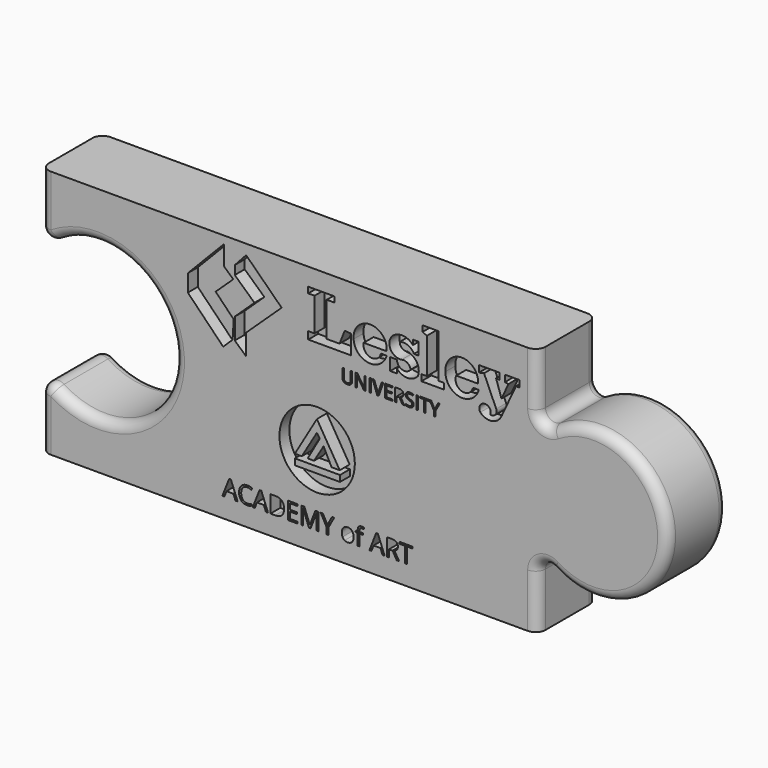
from build123d import *

# Parameters (mm, degrees)
F0_R     = 19.2866913545
F0_W     = 0.7682752257
F0_H     = 6.6106393715
F1_DEPTH = 38.1
F2_W     = 174.1231121123
F2_H     = 118.1366220117
F3_DEPTH = 31.75
F4_W     = 23.0590477586
F4_H     = 3.1444150954
F5_DEPTH = 6.35
F6_R     = 5.08
F7_R     = 5.08


with BuildPart() as f1:
    # F0 (on Front) → F1 (new body)
    with BuildSketch(Plane.XZ):
        with BuildLine():
            Line((22.7776248985, 105.6069748568), (-231.2223751015, 105.6069748568))
            Line((-231.2223751015, 105.6069748568), (-231.2223751015, 68.5229748568))
            ThreePointArc((-231.2223751015, 68.5229748568), (-162.8919193039, 41.8529748568), (-231.2223751015, 15.1829748568))
            Line((-231.2223751015, 15.1829748568), (-231.2223751015, -21.9010251432))
            Line((-231.2223751015, -21.9010251432), (22.7776248985, -21.9010251432))
            Line((22.7776248985, -21.9010251432), (22.7776248985, 16.4529748568))
            ThreePointArc((22.7776248985, 16.4529748568), (89.2756882128, 41.8529748568), (22.7776248985, 67.2529748568))
            Line((22.7776248985, 67.2529748568), (22.7776248985, 105.6069748568))
        make_face()
        Polygon((-130.6289444447, -11.8888162251), (-131.6869435862, -11.8888162251), (-132.781491789, -9.0937748566), (-136.3036671131, -9.0937748566), (-137.3847498723, -11.8888162251), (-138.4196653962, -11.8888162251), (-134.9455809423, -3.0631797496), (-134.0857161854, -3.0631797496), align=None, mode=Mode.SUBTRACT)
        with BuildLine():
            add(Edge.make_bspline(
                [(-123.6615391887, -4.3558623371), (-124.6599056514, -3.88841908), (-125.6582721141, -3.88841908)],
                knots=[0, 0, 0, 1, 1, 1], degree=2))
            add(Edge.make_bspline(
                [(-125.6582721141, -3.88841908), (-127.1067691206, -3.88841908), (-127.9454738947, -4.8531219337)],
                knots=[0, 0, 0, 1, 1, 1], degree=2))
            add(Edge.make_bspline(
                [(-127.9454738947, -4.8531219337), (-128.7841786687, -5.8178247873), (-128.7841786687, -7.4952343354)],
                knots=[0, 0, 0, 1, 1, 1], degree=2))
            add(Edge.make_bspline(
                [(-128.7841786687, -7.4952343354), (-128.7841786687, -9.2188111187), (-127.9752902341, -10.1604303547)],
                knots=[0, 0, 0, 1, 1, 1], degree=2))
            add(Edge.make_bspline(
                [(-127.9752902341, -10.1604303547), (-127.1664017995, -11.1020495907), (-125.6698139229, -11.1020495907)],
                knots=[0, 0, 0, 1, 1, 1], degree=2))
            add(Edge.make_bspline(
                [(-125.6698139229, -11.1020495907), (-124.7503164871, -11.1020495907), (-123.571128353, -10.7711844047)],
                knots=[0, 0, 0, 1, 1, 1], degree=2))
            Line((-123.571128353, -10.7711844047), (-123.571128353, -11.665674588))
            add(Edge.make_bspline(
                [(-123.571128353, -11.665674588), (-124.4848548843, -12.0100052177), (-125.8256283419, -12.0100052177)],
                knots=[0, 0, 0, 1, 1, 1], degree=2))
            add(Edge.make_bspline(
                [(-125.8256283419, -12.0100052177), (-127.766575858, -12.0100052177), (-128.8216895474, -10.8308170835)],
                knots=[0, 0, 0, 1, 1, 1], degree=2))
            add(Edge.make_bspline(
                [(-128.8216895474, -10.8308170835), (-129.8768032367, -9.6516289494), (-129.8768032367, -7.4817688918)],
                knots=[0, 0, 0, 1, 1, 1], degree=2))
            add(Edge.make_bspline(
                [(-129.8768032367, -7.4817688918), (-129.8768032367, -6.123682721), (-129.3689636488, -5.1022326406)],
                knots=[0, 0, 0, 1, 1, 1], degree=2))
            add(Edge.make_bspline(
                [(-129.3689636488, -5.1022326406), (-128.8611240608, -4.0807825603), (-127.9021921116, -3.5277375545)],
                knots=[0, 0, 0, 1, 1, 1], degree=2))
            add(Edge.make_bspline(
                [(-127.9021921116, -3.5277375545), (-126.9432601624, -2.9746925487), (-125.6448066705, -2.9746925487)],
                knots=[0, 0, 0, 1, 1, 1], degree=2))
            add(Edge.make_bspline(
                [(-125.6448066705, -2.9746925487), (-124.263636882, -2.9746925487), (-123.2287213581, -3.478684867)],
                knots=[0, 0, 0, 1, 1, 1], degree=2))
            Line((-123.2287213581, -3.478684867), (-123.6615391887, -4.3558623371))
        make_face(mode=Mode.SUBTRACT)
        Polygon((-115.0705861592, -11.8888162251), (-116.1285853007, -11.8888162251), (-117.2231335036, -9.0937748566), (-120.7453088276, -9.0937748566), (-121.8263915868, -11.8888162251), (-122.8613071107, -11.8888162251), (-119.3872226568, -3.0631797496), (-118.5273578999, -3.0631797496), align=None, mode=Mode.SUBTRACT)
        with BuildLine():
            add(Edge.make_bspline(
                [(-107.982953728, -4.235635162), (-106.847047377, -5.371541513), (-106.847047377, -7.4105944041)],
                knots=[0, 0, 0, 1, 1, 1], degree=2))
            add(Edge.make_bspline(
                [(-106.847047377, -7.4105944041), (-106.847047377, -9.5862253661), (-108.0281591459, -10.7375207956)],
                knots=[0, 0, 0, 1, 1, 1], degree=2))
            add(Edge.make_bspline(
                [(-108.0281591459, -10.7375207956), (-109.2092709149, -11.8888162251), (-111.4272218426, -11.8888162251)],
                knots=[0, 0, 0, 1, 1, 1], degree=2))
            Line((-111.4272218426, -11.8888162251), (-113.862543503, -11.8888162251))
            Line((-113.862543503, -11.8888162251), (-113.862543503, -3.0997288109))
            Line((-113.862543503, -3.0997288109), (-111.169454779, -3.0997288109))
            add(Edge.make_bspline(
                [(-111.169454779, -3.0997288109), (-109.1188600791, -3.0997288109), (-107.982953728, -4.235635162)],
                knots=[0, 0, 0, 1, 1, 1], degree=2))
        make_face(mode=Mode.SUBTRACT)
        Polygon((-99.98736567, -10.9750896938), (-99.98736567, -11.8888162251), (-104.8868635129, -11.8888162251), (-104.8868635129, -3.0997288109), (-99.98736567, -3.0997288109), (-99.98736567, -4.0076844378), (-103.8654134325, -4.0076844378), (-103.8654134325, -6.8392748676), (-100.2220491159, -6.8392748676), (-100.2220491159, -7.7414595902), (-103.8654134325, -7.7414595902), (-103.8654134325, -10.9750896938), align=None, mode=Mode.SUBTRACT)
        with BuildLine():
            Line((-93.3277419825, -11.8888162251), (-94.1510576781, -11.8888162251))
            Line((-94.1510576781, -11.8888162251), (-97.1326916225, -4.0980952735))
            Line((-97.1326916225, -4.0980952735), (-97.1807824926, -4.0980952735))
            add(Edge.make_bspline(
                [(-97.1807824926, -4.0980952735), (-97.0961425613, -5.0233636137), (-97.0961425613, -6.298733488)],
                knots=[0, 0, 0, 1, 1, 1], degree=2))
            Line((-97.0961425613, -6.298733488), (-97.0961425613, -11.8888162251))
            Line((-97.0961425613, -11.8888162251), (-98.0406472495, -11.8888162251))
            Line((-98.0406472495, -11.8888162251), (-98.0406472495, -3.0997288109))
            Line((-98.0406472495, -3.0997288109), (-96.5017394072, -3.0997288109))
            Line((-96.5017394072, -3.0997288109), (-93.7182398475, -10.3499083828))
            Line((-93.7182398475, -10.3499083828), (-93.6701489774, -10.3499083828))
            Line((-93.6701489774, -10.3499083828), (-90.8635658, -3.0997288109))
            Line((-90.8635658, -3.0997288109), (-89.3361997666, -3.0997288109))
            Line((-89.3361997666, -3.0997288109), (-89.3361997666, -11.8888162251))
            Line((-89.3361997666, -11.8888162251), (-90.3576498469, -11.8888162251))
            Line((-90.3576498469, -11.8888162251), (-90.3576498469, -6.2256353655))
            add(Edge.make_bspline(
                [(-90.3576498469, -6.2256353655), (-90.3576498469, -5.2522761553), (-90.2730099156, -4.1096370824)],
                knots=[0, 0, 0, 1, 1, 1], degree=2))
            Line((-90.2730099156, -4.1096370824), (-90.3211007856, -4.1096370824))
            Line((-90.3211007856, -4.1096370824), (-93.3277419825, -11.8888162251))
        make_face(mode=Mode.SUBTRACT)
        Polygon((-87.0162961943, -3.0997288109), (-84.6886980829, -7.4952343354), (-82.345710893, -3.0997288109), (-81.2396208814, -3.0997288109), (-84.1731639557, -8.4801353545), (-84.1731639557, -11.8888162251), (-85.2061558448, -11.8888162251), (-85.2061558448, -8.5282262245), (-88.1339280148, -3.0997288109), align=None, mode=Mode.SUBTRACT)
        with BuildLine():
            add(Edge.make_bspline(
                [(-72.1110119244, -6.0996372859), (-71.2963525854, -7.0200965391), (-71.2963525854, -8.5878589034)],
                knots=[0, 0, 0, 1, 1, 1], degree=2))
            add(Edge.make_bspline(
                [(-71.2963525854, -8.5878589034), (-71.2963525854, -10.1998648682), (-72.1071646548, -11.1049350429)],
                knots=[0, 0, 0, 1, 1, 1], degree=2))
            add(Edge.make_bspline(
                [(-72.1071646548, -11.1049350429), (-72.9179767242, -12.0100052177), (-74.3491610175, -12.0100052177)],
                knots=[0, 0, 0, 1, 1, 1], degree=2))
            add(Edge.make_bspline(
                [(-74.3491610175, -12.0100052177), (-75.2340330268, -12.0100052177), (-75.9188470167, -11.5945001003)],
                knots=[0, 0, 0, 1, 1, 1], degree=2))
            add(Edge.make_bspline(
                [(-75.9188470167, -11.5945001003), (-76.6036610065, -11.1789949829), (-76.9768461582, -10.4037701573)],
                knots=[0, 0, 0, 1, 1, 1], degree=2))
            add(Edge.make_bspline(
                [(-76.9768461582, -10.4037701573), (-77.35003131, -9.6285453318), (-77.35003131, -8.5878589034)],
                knots=[0, 0, 0, 1, 1, 1], degree=2))
            add(Edge.make_bspline(
                [(-77.35003131, -8.5878589034), (-77.35003131, -6.9777765734), (-76.5440283276, -6.0784773031)],
                knots=[0, 0, 0, 1, 1, 1], degree=2))
            add(Edge.make_bspline(
                [(-76.5440283276, -6.0784773031), (-75.7380253452, -5.1791780328), (-74.3068410519, -5.1791780328)],
                knots=[0, 0, 0, 1, 1, 1], degree=2))
            add(Edge.make_bspline(
                [(-74.3068410519, -5.1791780328), (-72.9256712634, -5.1791780328), (-72.1110119244, -6.0996372859)],
                knots=[0, 0, 0, 1, 1, 1], degree=2))
        make_face(mode=Mode.SUBTRACT)
        with Locations((-89.9621769786, 24.6247574687)):
            Circle(F0_R, mode=Mode.SUBTRACT)
        with BuildLine():
            Line((-66.5757527792, -5.3003670253), (-66.5757527792, -6.0755918509))
            Line((-66.5757527792, -6.0755918509), (-68.2531623273, -6.0755918509))
            Line((-68.2531623273, -6.0755918509), (-68.2531623273, -11.8888162251))
            Line((-68.2531623273, -11.8888162251), (-69.25152879, -11.8888162251))
            Line((-69.25152879, -11.8888162251), (-69.25152879, -6.0755918509))
            Line((-69.25152879, -6.0755918509), (-70.4287932893, -6.0755918509))
            Line((-70.4287932893, -6.0755918509), (-70.4287932893, -5.625461307))
            Line((-70.4287932893, -5.625461307), (-69.25152879, -5.2638179641))
            Line((-69.25152879, -5.2638179641), (-69.25152879, -4.8983273515))
            add(Edge.make_bspline(
                [(-69.25152879, -4.8983273515), (-69.25152879, -2.4687765955), (-67.1297596024, -2.4687765955)],
                knots=[0, 0, 0, 1, 1, 1], degree=2))
            add(Edge.make_bspline(
                [(-67.1297596024, -2.4687765955), (-66.606530936, -2.4687765955), (-65.9024805982, -2.678452789)],
                knots=[0, 0, 0, 1, 1, 1], degree=2))
            Line((-65.9024805982, -2.678452789), (-66.1621712966, -3.478684867))
            add(Edge.make_bspline(
                [(-66.1621712966, -3.478684867), (-66.7392617374, -3.2920922912), (-67.1470723156, -3.2920922912)],
                knots=[0, 0, 0, 1, 1, 1], degree=2))
            add(Edge.make_bspline(
                [(-67.1470723156, -3.2920922912), (-67.7126209477, -3.2920922912), (-67.9828916375, -3.6681628951)],
                knots=[0, 0, 0, 1, 1, 1], degree=2))
            add(Edge.make_bspline(
                [(-67.9828916375, -3.6681628951), (-68.2531623273, -4.0442334991), (-68.2531623273, -4.8733200991)],
                knots=[0, 0, 0, 1, 1, 1], degree=2))
            Line((-68.2531623273, -4.8733200991), (-68.2531623273, -5.3003670253))
            Line((-68.2531623273, -5.3003670253), (-66.5757527792, -5.3003670253))
        make_face(mode=Mode.SUBTRACT)
        Polygon((-55.4417545403, -11.8888162251), (-56.4997536818, -11.8888162251), (-57.5943018847, -9.0937748566), (-61.1164772087, -9.0937748566), (-62.1975599679, -11.8888162251), (-63.2324754918, -11.8888162251), (-59.7583910379, -3.0631797496), (-58.898526281, -3.0631797496), align=None, mode=Mode.SUBTRACT)
        with BuildLine():
            Line((-51.3771142018, -8.2339100997), (-53.2122618038, -8.2339100997))
            Line((-53.2122618038, -8.2339100997), (-53.2122618038, -11.8888162251))
            Line((-53.2122618038, -11.8888162251), (-54.2337118841, -11.8888162251))
            Line((-54.2337118841, -11.8888162251), (-54.2337118841, -3.0997288109))
            Line((-54.2337118841, -3.0997288109), (-51.8233974761, -3.0997288109))
            add(Edge.make_bspline(
                [(-51.8233974761, -3.0997288109), (-50.2056206069, -3.0997288109), (-49.4332812336, -3.7191392174)],
                knots=[0, 0, 0, 1, 1, 1], degree=2))
            add(Edge.make_bspline(
                [(-49.4332812336, -3.7191392174), (-48.6609418602, -4.3385496239), (-48.6609418602, -5.5831413414)],
                knots=[0, 0, 0, 1, 1, 1], degree=2))
            add(Edge.make_bspline(
                [(-48.6609418602, -5.5831413414), (-48.6609418602, -7.3259544727), (-50.428762244, -7.9395939748)],
                knots=[0, 0, 0, 1, 1, 1], degree=2))
            Line((-50.428762244, -7.9395939748), (-48.0415314537, -11.8888162251))
            Line((-48.0415314537, -11.8888162251), (-49.2495741099, -11.8888162251))
            Line((-49.2495741099, -11.8888162251), (-51.3771142018, -8.2339100997))
        make_face(mode=Mode.SUBTRACT)
        Polygon((-43.9191820712, -4.0076844378), (-43.9191820712, -11.8888162251), (-44.9406321515, -11.8888162251), (-44.9406321515, -4.0076844378), (-47.7241317112, -4.0076844378), (-47.7241317112, -3.0997288109), (-41.1356825114, -3.0997288109), (-41.1356825114, -4.0076844378), align=None, mode=Mode.SUBTRACT)
        with BuildLine():
            Line((-72.7842403066, 65.7615475138), (-72.0159650809, 65.7615475138))
            Line((-72.0159650809, 65.7615475138), (-72.0159650809, 61.4846707394))
            add(Edge.make_bspline(
                [(-72.0159650809, 61.4846707394), (-72.0159650809, 60.3532371679), (-72.6988763927, 59.7064970061)],
                knots=[0, 0, 0, 1, 1, 1], degree=2))
            add(Edge.make_bspline(
                [(-72.6988763927, 59.7064970061), (-73.3817877044, 59.0597568444), (-74.575435654, 59.0597568444)],
                knots=[0, 0, 0, 1, 1, 1], degree=2))
            add(Edge.make_bspline(
                [(-74.575435654, 59.0597568444), (-75.7690836035, 59.0597568444), (-76.4223345723, 59.7115609671)],
                knots=[0, 0, 0, 1, 1, 1], degree=2))
            add(Edge.make_bspline(
                [(-76.4223345723, 59.7115609671), (-77.075585541, 60.3633650899), (-77.075585541, 61.5020328914)],
                knots=[0, 0, 0, 1, 1, 1], degree=2))
            Line((-77.075585541, 61.5020328914), (-77.075585541, 65.7615475138))
            Line((-77.075585541, 65.7615475138), (-76.3058634693, 65.7615475138))
            Line((-76.3058634693, 65.7615475138), (-76.3058634693, 61.4484995895))
            add(Edge.make_bspline(
                [(-76.3058634693, 61.4484995895), (-76.3058634693, 60.6209036778), (-75.8537240945, 60.1774453789)],
                knots=[0, 0, 0, 1, 1, 1], degree=2))
            add(Edge.make_bspline(
                [(-75.8537240945, 60.1774453789), (-75.4015847197, 59.7339870801), (-74.524796044, 59.7339870801)],
                knots=[0, 0, 0, 1, 1, 1], degree=2))
            add(Edge.make_bspline(
                [(-74.524796044, 59.7339870801), (-73.6885190563, 59.7339870801), (-73.2363796815, 60.1796156479)],
                knots=[0, 0, 0, 1, 1, 1], degree=2))
            add(Edge.make_bspline(
                [(-73.2363796815, 60.1796156479), (-72.7842403066, 60.6252442158), (-72.7842403066, 61.4571806655)],
                knots=[0, 0, 0, 1, 1, 1], degree=2))
            Line((-72.7842403066, 61.4571806655), (-72.7842403066, 65.7615475138))
        make_face(mode=Mode.SUBTRACT)
        Polygon((-156.081246577, 82.650741266), (-137.7056363266, 101.6159406454), (-137.7056363266, 91.8432741735), (-132.9558640718, 87.4800257944), (-132.8670829535, 87.3984694481), (-132.9558640718, 87.3148450382), (-141.8551151479, 78.9324926466), (-132.6291412115, 69.434069097), (-133.1835709436, 60.1048483104), (-138.0063886529, 55.3902453302), (-156.081246577, 73.8799771816), align=None, mode=Mode.SUBTRACT)
        Polygon((-122.0194816615, 80.3715138252), (-132.0813022478, 89.5948422336), (-132.0813022478, 94.0917061135), (-126.2693896673, 100.4319792838), (-108.1147141678, 82.650741266), (-126.2693896673, 65.5644410699), (-126.2693896673, 54.8817119152), (-132.0813022478, 60.1048483104), (-132.0813022478, 70.8920234842), align=None, mode=Mode.SUBTRACT)
        Polygon((-91.2973232491, 93.5498824865), (-94.5062510593, 93.5498824865), (-94.5062510593, 96.5768596679), (-81.0845591052, 96.5768596679), (-81.0845591052, 93.7675660998), (-85.0483573897, 93.7675660998), (-85.0483573897, 76.1089375765), (-78.5203747375, 76.1089375765), (-75.8323617203, 82.8137821109), (-72.7043621166, 82.5686207563), (-72.7043621166, 72.7614885718), (-94.5062510593, 72.7614885718), (-94.5062510593, 76.5649876148), (-91.2973232491, 76.5649876148), align=None, mode=Mode.SUBTRACT)
        with BuildLine():
            Line((-65.1029348955, 65.7615475138), (-65.1029348955, 59.1509081423))
            Line((-65.1029348955, 59.1509081423), (-65.9797235712, 59.1509081423))
            Line((-65.9797235712, 59.1509081423), (-69.5924980319, 64.6981157042))
            Line((-69.5924980319, 64.6981157042), (-69.6286691818, 64.6981157042))
            add(Edge.make_bspline(
                [(-69.6286691818, 64.6981157042), (-69.5563268819, 63.7214946546), (-69.5563268819, 62.9083672029)],
                knots=[0, 0, 0, 1, 1, 1], degree=2))
            Line((-69.5563268819, 62.9083672029), (-69.5563268819, 59.1509081423))
            Line((-69.5563268819, 59.1509081423), (-70.2667282676, 59.1509081423))
            Line((-70.2667282676, 59.1509081423), (-70.2667282676, 65.7615475138))
            Line((-70.2667282676, 65.7615475138), (-69.3986206679, 65.7615475138))
            Line((-69.3986206679, 65.7615475138), (-65.7945272833, 60.2360426419))
            Line((-65.7945272833, 60.2360426419), (-65.7583561333, 60.2360426419))
            add(Edge.make_bspline(
                [(-65.7583561333, 60.2360426419), (-65.7670372093, 60.3575777059), (-65.7988678213, 61.0202331736)],
                knots=[0, 0, 0, 1, 1, 1], degree=2))
            add(Edge.make_bspline(
                [(-65.7988678213, 61.0202331736), (-65.8306984333, 61.6828886414), (-65.8220173573, 61.9679173033)],
                knots=[0, 0, 0, 1, 1, 1], degree=2))
            Line((-65.8220173573, 61.9679173033), (-65.8220173573, 65.7615475138))
            Line((-65.8220173573, 65.7615475138), (-65.1029348955, 65.7615475138))
        make_face(mode=Mode.SUBTRACT)
        with Locations((-62.9015587074, 62.4562278281)):
            Rectangle(F0_W, F0_H, mode=Mode.SUBTRACT)
        with BuildLine():
            Line((-58.4387622221, 61.5107139674), (-56.9282549986, 65.7615475138))
            Line((-56.9282549986, 65.7615475138), (-56.102105933, 65.7615475138))
            Line((-56.102105933, 65.7615475138), (-58.4836144481, 59.1509081423))
            Line((-58.4836144481, 59.1509081423), (-59.2432085978, 59.1509081423))
            Line((-59.2432085978, 59.1509081423), (-61.6131423449, 65.7615475138))
            Line((-61.6131423449, 65.7615475138), (-60.7985680472, 65.7615475138))
            Line((-60.7985680472, 65.7615475138), (-59.2793797477, 61.4846707394))
            add(Edge.make_bspline(
                [(-59.2793797477, 61.4846707394), (-59.0175006218, 60.7467792797), (-58.8641349459, 60.050846354)],
                knots=[0, 0, 0, 1, 1, 1], degree=2))
            add(Edge.make_bspline(
                [(-58.8641349459, 60.050846354), (-58.700641348, 60.7829504297), (-58.4387622221, 61.5107139674)],
                knots=[0, 0, 0, 1, 1, 1], degree=2))
        make_face(mode=Mode.SUBTRACT)
        Polygon((-51.5083698847, 59.8381599921), (-51.5083698847, 59.1509081423), (-55.1934866453, 59.1509081423), (-55.1934866453, 65.7615475138), (-51.5083698847, 65.7615475138), (-51.5083698847, 65.0786362021), (-54.4252114196, 65.0786362021), (-54.4252114196, 62.9488788909), (-51.6848850966, 62.9488788909), (-51.6848850966, 62.2703081171), (-54.4252114196, 62.2703081171), (-54.4252114196, 59.8381599921), align=None, mode=Mode.SUBTRACT)
        with BuildLine():
            Line((-47.8955954241, 61.8999155413), (-49.2758865075, 61.8999155413))
            Line((-49.2758865075, 61.8999155413), (-49.2758865075, 59.1509081423))
            Line((-49.2758865075, 59.1509081423), (-50.0441617332, 59.1509081423))
            Line((-50.0441617332, 59.1509081423), (-50.0441617332, 65.7615475138))
            Line((-50.0441617332, 65.7615475138), (-48.2312636959, 65.7615475138))
            add(Edge.make_bspline(
                [(-48.2312636959, 65.7615475138), (-47.0144662104, 65.7615475138), (-46.4335575416, 65.295663102)],
                knots=[0, 0, 0, 1, 1, 1], degree=2))
            add(Edge.make_bspline(
                [(-46.4335575416, 65.295663102), (-45.8526488728, 64.8297786902), (-45.8526488728, 63.8936693285)],
                knots=[0, 0, 0, 1, 1, 1], degree=2))
            add(Edge.make_bspline(
                [(-45.8526488728, 63.8936693285), (-45.8526488728, 62.582826853), (-47.1823003463, 62.1212829792)],
                knots=[0, 0, 0, 1, 1, 1], degree=2))
            Line((-47.1823003463, 62.1212829792), (-45.386764461, 59.1509081423))
            Line((-45.386764461, 59.1509081423), (-46.2953837487, 59.1509081423))
            Line((-46.2953837487, 59.1509081423), (-47.8955954241, 61.8999155413))
        make_face(mode=Mode.SUBTRACT)
        with BuildLine():
            add(Edge.make_bspline(
                [(-40.9811183927, 62.0127695292), (-40.5904699728, 61.5873968054), (-40.5904699728, 60.9102728777)],
                knots=[0, 0, 0, 1, 1, 1], degree=2))
            add(Edge.make_bspline(
                [(-40.5904699728, 60.9102728777), (-40.5904699728, 60.03782474), (-41.2234650976, 59.5487907922)],
                knots=[0, 0, 0, 1, 1, 1], degree=2))
            add(Edge.make_bspline(
                [(-41.2234650976, 59.5487907922), (-41.8564602223, 59.0597568444), (-42.9415947219, 59.0597568444)],
                knots=[0, 0, 0, 1, 1, 1], degree=2))
            add(Edge.make_bspline(
                [(-42.9415947219, 59.0597568444), (-44.1164336735, 59.0597568444), (-44.7501522212, 59.3635945042)],
                knots=[0, 0, 0, 1, 1, 1], degree=2))
            Line((-44.7501522212, 59.3635945042), (-44.7501522212, 60.104379656))
            add(Edge.make_bspline(
                [(-44.7501522212, 60.104379656), (-44.3421416494, 59.933651828), (-43.8632356236, 59.8338194541)],
                knots=[0, 0, 0, 1, 1, 1], degree=2))
            add(Edge.make_bspline(
                [(-43.8632356236, 59.8338194541), (-43.3843295978, 59.7339870801), (-42.9141046479, 59.7339870801)],
                knots=[0, 0, 0, 1, 1, 1], degree=2))
            add(Edge.make_bspline(
                [(-42.9141046479, 59.7339870801), (-42.1458294222, 59.7339870801), (-41.7566278484, 60.025526549)],
                knots=[0, 0, 0, 1, 1, 1], degree=2))
            add(Edge.make_bspline(
                [(-41.7566278484, 60.025526549), (-41.3674262745, 60.3170660179), (-41.3674262745, 60.8379305777)],
                knots=[0, 0, 0, 1, 1, 1], degree=2))
            add(Edge.make_bspline(
                [(-41.3674262745, 60.8379305777), (-41.3674262745, 61.1808330796), (-41.5056000675, 61.4000302485)],
                knots=[0, 0, 0, 1, 1, 1], degree=2))
            add(Edge.make_bspline(
                [(-41.5056000675, 61.4000302485), (-41.6437738604, 61.6192274174), (-41.9671439413, 61.8051471283)],
                knots=[0, 0, 0, 1, 1, 1], degree=2))
            add(Edge.make_bspline(
                [(-41.9671439413, 61.8051471283), (-42.2905140222, 61.9910668393), (-42.9502757979, 62.2254558912)],
                knots=[0, 0, 0, 1, 1, 1], degree=2))
            add(Edge.make_bspline(
                [(-42.9502757979, 62.2254558912), (-43.8719166996, 62.555336779), (-44.2676290804, 63.0074761539)],
                knots=[0, 0, 0, 1, 1, 1], degree=2))
            add(Edge.make_bspline(
                [(-44.2676290804, 63.0074761539), (-44.6633414613, 63.4596155287), (-44.6633414613, 64.1873790664)],
                knots=[0, 0, 0, 1, 1, 1], degree=2))
            add(Edge.make_bspline(
                [(-44.6633414613, 64.1873790664), (-44.6633414613, 64.9513137541), (-44.0896670225, 65.403453129)],
                knots=[0, 0, 0, 1, 1, 1], degree=2))
            add(Edge.make_bspline(
                [(-44.0896670225, 65.403453129), (-43.5159925837, 65.8555925038), (-42.5697553001, 65.8555925038)],
                knots=[0, 0, 0, 1, 1, 1], degree=2))
            add(Edge.make_bspline(
                [(-42.5697553001, 65.8555925038), (-41.5844531744, 65.8555925038), (-40.7568572627, 65.4938810039)],
                knots=[0, 0, 0, 1, 1, 1], degree=2))
            Line((-40.7568572627, 65.4938810039), (-40.9970336987, 64.8254381522))
            add(Edge.make_bspline(
                [(-40.9970336987, 64.8254381522), (-41.8159485343, 65.1683406541), (-42.5885642981, 65.1683406541)],
                knots=[0, 0, 0, 1, 1, 1], degree=2))
            add(Edge.make_bspline(
                [(-42.5885642981, 65.1683406541), (-43.1991333098, 65.1683406541), (-43.5427592347, 64.9064615282)],
                knots=[0, 0, 0, 1, 1, 1], degree=2))
            add(Edge.make_bspline(
                [(-43.5427592347, 64.9064615282), (-43.8863851596, 64.6445824023), (-43.8863851596, 64.1786979904)],
                knots=[0, 0, 0, 1, 1, 1], degree=2))
            add(Edge.make_bspline(
                [(-43.8863851596, 64.1786979904), (-43.8863851596, 63.8357954886), (-43.7597861346, 63.6158748966)],
                knots=[0, 0, 0, 1, 1, 1], degree=2))
            add(Edge.make_bspline(
                [(-43.7597861346, 63.6158748966), (-43.6331871097, 63.3959543047), (-43.3322431418, 63.2129282858)],
                knots=[0, 0, 0, 1, 1, 1], degree=2))
            add(Edge.make_bspline(
                [(-43.3322431418, 63.2129282858), (-43.0312991739, 63.0299022669), (-42.4120490861, 62.8085348289)],
                knots=[0, 0, 0, 1, 1, 1], degree=2))
            add(Edge.make_bspline(
                [(-42.4120490861, 62.8085348289), (-41.3717668125, 62.4381422531), (-40.9811183927, 62.0127695292)],
                knots=[0, 0, 0, 1, 1, 1], degree=2))
        make_face(mode=Mode.SUBTRACT)
        with Locations((-38.8535313505, 62.4562278281)):
            Rectangle(F0_W, F0_H, mode=Mode.SUBTRACT)
        Polygon((-34.6222302251, 65.0786362021), (-34.6222302251, 59.1509081423), (-35.3905054508, 59.1509081423), (-35.3905054508, 65.0786362021), (-37.484091612, 65.0786362021), (-37.484091612, 65.7615475138), (-32.5286440639, 65.7615475138), (-32.5286440639, 65.0786362021), align=None, mode=Mode.SUBTRACT)
        Polygon((-31.6012157782, 65.7615475138), (-29.8505321189, 62.4555044051), (-28.0882736915, 65.7615475138), (-27.2563372419, 65.7615475138), (-29.462777391, 61.7147192534), (-29.462777391, 59.1509081423), (-30.2397336927, 59.1509081423), (-30.2397336927, 61.6785481034), (-32.4418333039, 65.7615475138), align=None, mode=Mode.SUBTRACT)
        with BuildLine():
            ThreePointArc((-66.1622904165, 80.5365494043), (-62.7477672484, 75.1108396004), (-57.3466852231, 78.5641870052))
            Line((-57.3466852231, 78.5641870052), (-54.3989114387, 78.5641870052))
            ThreePointArc((-54.3989114387, 78.5641870052), (-63.6928728359, 72.3342945034), (-71.3028855546, 80.5365494043))
            ThreePointArc((-71.3028855546, 80.5365494043), (-62.8508984966, 89.8894191032), (-54.3989114387, 80.5365494043))
            Line((-54.3989114387, 80.5365494043), (-66.1622904165, 80.5365494043))
        make_face(mode=Mode.SUBTRACT)
        with BuildLine():
            Line((-38.1303153856, 83.8833651096), (-40.4057226999, 83.8833651096))
            ThreePointArc((-40.4057226999, 83.8833651096), (-43.4578297036, 86.7686755469), (-47.6512297912, 87.0048305542))
            ThreePointArc((-47.6512297912, 87.0048305542), (-46.558258038, 84.4127943773), (-43.7954798265, 83.8833651096))
            ThreePointArc((-43.7954798265, 83.8833651096), (-38.8933491021, 80.4696277328), (-38.4490474982, 74.5125240237))
            ThreePointArc((-38.4490474982, 74.5125240237), (-43.8060391618, 71.9828413081), (-49.1630308254, 74.5125240237))
            Line((-49.1630308254, 74.5125240237), (-49.1630308254, 72.2371167094))
            Line((-49.1630308254, 72.2371167094), (-52.5761455221, 72.2371167094))
            Line((-52.5761455221, 72.2371167094), (-52.5761455221, 78.4944868237))
            Line((-52.5761455221, 78.4944868237), (-49.1630308254, 78.4944868237))
            ThreePointArc((-49.1630308254, 78.4944868237), (-46.471410487, 74.8398604138), (-42.1471916063, 76.2190795094))
            ThreePointArc((-42.1471916063, 76.2190795094), (-43.7914746277, 78.7500303883), (-46.7719159944, 79.2257911116))
            ThreePointArc((-46.7719159944, 79.2257911116), (-52.8945755898, 83.3172882897), (-49.2744244559, 89.7299176604))
            ThreePointArc((-49.2744244559, 89.7299176604), (-44.7871588939, 90.0658259144), (-40.9745782538, 87.675718084))
            Line((-40.9745782538, 87.675718084), (-40.9745782538, 90.1407426745))
            Line((-40.9745782538, 90.1407426745), (-38.1303153856, 90.1407426745))
            Line((-38.1303153856, 90.1407426745), (-38.1303153856, 83.8833651096))
        make_face(mode=Mode.SUBTRACT)
        with BuildLine():
            Line((-7.6368343009, 81.1491286904), (-18.8242573215, 81.1491286904))
            ThreePointArc((-18.8242573215, 81.1491286904), (-16.0354306957, 75.0724929834), (-10.2914761676, 78.4944868237))
            Line((-10.2914761676, 78.4944868237), (-7.2575997485, 78.4944868237))
            ThreePointArc((-7.2575997485, 78.4944868237), (-16.9782815776, 72.1852949294), (-24.3231601937, 81.1491286904))
            ThreePointArc((-24.3231601937, 81.1491286904), (-15.9799972473, 90.2003864283), (-7.6368343009, 81.1491286904))
        make_face(mode=Mode.SUBTRACT)
        with BuildLine():
            Line((3.3609683003, 86.2688025982), (1.5282757656, 86.6480371505))
            Line((1.5282757656, 86.6480371505), (4.3090610841, 78.3048695475))
            Line((4.3090610841, 78.3048695475), (7.9117888661, 86.079185322))
            Line((7.9117888661, 86.079185322), (6.0156170355, 86.2688025982))
            Line((6.0156170355, 86.2688025982), (6.0156170355, 89.6819135696))
            Line((6.0156170355, 89.6819135696), (13.4293457664, 89.6819135696))
            Line((13.4293457664, 89.6819135696), (13.4293457664, 86.2688025982))
            Line((13.4293457664, 86.2688025982), (11.7041325273, 86.2688025982))
            Line((11.7041325273, 86.2688025982), (4.3090610841, 70.3409439475))
            ThreePointArc((4.3090610841, 70.3409439475), (-0.6401665646, 66.6068355105), (-6.4991297124, 68.6343884618))
            ThreePointArc((-6.4991297124, 68.6343884618), (-4.4138941806, 73.1902048253), (-1.3794611598, 69.2032402903))
            ThreePointArc((-1.3794611598, 69.2032402903), (1.2368591149, 70.0591048302), (1.6216274243, 72.7848321164))
            Line((1.6216274243, 72.7848321164), (-4.6029574162, 86.8376544267))
            Line((-4.6029574162, 86.8376544267), (-7.2575997485, 86.2688025982))
            Line((-7.2575997485, 86.2688025982), (-7.2575997485, 89.6819135696))
            Line((-7.2575997485, 89.6819135696), (3.3609683003, 89.6819135696))
            Line((3.3609683003, 89.6819135696), (3.3609683003, 86.2688025982))
        make_face(mode=Mode.SUBTRACT)
        Polygon((-33.8040277286, 94.2327281982), (-36.0794350429, 95.1808145792), (-36.0794350429, 98.2146909982), (-27.925890304, 98.2146909982), (-27.925890304, 75.839844957), (-25.0816292985, 75.839844957), (-25.0816292985, 72.805968538), (-36.6482868714, 72.805968538), (-36.6482868714, 76.0294622332), (-33.8040277286, 76.0294622332), align=None, mode=Mode.SUBTRACT)
    extrude(amount=F1_DEPTH)

    # F2 (on face) → F3 (join)
    with BuildSketch(Plane(origin=(0, 0, 0), x_dir=(-1, 0, 0), z_dir=(0, 1, 0))):
        with Locations((70.4723726958, 43.4056930244)):
            Rectangle(F2_W, F2_H)
    extrude(amount=-F3_DEPTH)

    # F4 (on face) → F5 (join)
    with BuildSketch(Plane.XZ.offset(31.75)):
        with Locations((-89.8151732981, 15.4925780371)):
            Rectangle(F4_W, F4_H)
        Polygon((-90.0772064924, 38.4206101298), (-101.3446971774, 19.1610623151), (-97.8072285652, 19.1610623151), (-90.0772064924, 32.2627946734), (-88.6360183358, 30.035501346), (-94.7938263416, 19.1610623151), (-91.518394649, 19.1610623151), (-86.67075634, 27.284136042), (-82.6092213392, 19.1610623151), (-78.4166678786, 19.1610623151), align=None)
    extrude(amount=F5_DEPTH)

    # F6
    f6_edges = [f1.edges().sort_by_distance(p)[0] for p in [
        (-162.891919, -38.1, 41.852975),
        (-231.222375, -38.1, 87.064975),
        (-231.222375, -38.1, -3.359025),
        (-231.222375, -19.05, 68.522975),
        (-231.222375, -19.05, 15.182975),
        (-162.891919, 0, 41.852975),
        (-231.222375, 0, 87.064975),
        (-231.222375, 0, -3.359025),
    ]]
    fillet(f6_edges, radius=F6_R)

    # F7
    f7_edges = [f1.edges().sort_by_distance(p)[0] for p in [
        (22.777625, -38.1, 86.429975),
        (22.777625, -38.1, -2.724025),
        (22.777625, 0, -2.724025),
        (22.777625, -19.05, 16.452975),
        (22.777625, 0, 86.429975),
        (22.777625, -19.05, 67.252975),
        (89.275688, 0, 41.852975),
        (89.275688, -38.1, 41.852975),
    ]]
    fillet(f7_edges, radius=F7_R)


solid = f1.part
